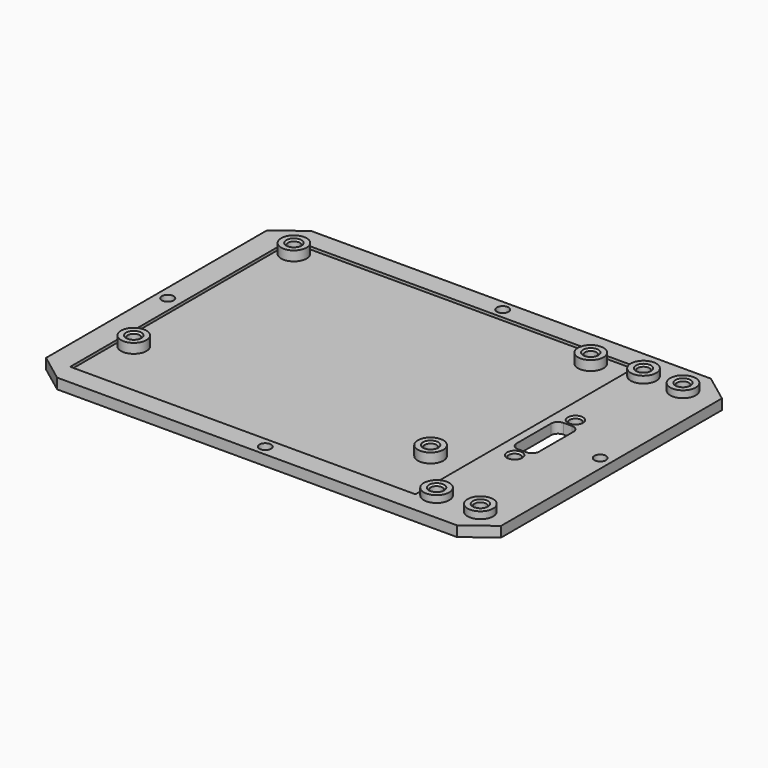
from build123d import *

# Parameters (mm, degrees)
PAD003_DEPTH    = 3
SKETCH020_W     = 100
SKETCH020_H     = 80
POCKET004_DEPTH = 0.8
SKETCH021_R     = 3.7
PAD004_DEPTH    = 2.8
SKETCH022_R     = 3.7
PAD005_DEPTH    = 2
SKETCH023_R     = 1.7
POCKET005_DEPTH = 4
SKETCH024_R     = 1.7
POCKET006_DEPTH = 3
SKETCH025_W     = 6.5
SKETCH025_H     = 16.5
POCKET007_DEPTH = 3
FILLET_R        = 2
SKETCH026_R     = 1.7
POCKET008_DEPTH = 3
CHAMFER_SIZE    = 0.5
SKETCH036_W     = 60
SKETCH036_H     = 40
PAD006_DEPTH    = 2
SKETCH034_W     = 40
SKETCH034_H     = 1
POCKET009_DEPTH = 10
SKETCH035_W     = 40
SKETCH035_H     = 1
POCKET011_DEPTH = 10
SKETCH037_W     = 40
SKETCH037_H     = 1
POCKET010_DEPTH = 5


with BuildPart() as part:
    # Sketch033 → Pad003 (new body)
    with BuildSketch(Plane.XY):
        Polygon((-65.9, 40), (-57.9, 46), (57.9, 46), (65.9, 40), (65.9, -40), (57.9, -46), (-57.9, -46), (-65.9, -40), align=None)
    extrude(amount=PAD003_DEPTH)

    # Sketch020 → Pocket004 (cut)
    with BuildSketch(Plane.XY.offset(3)):
        with Locations((-8.9, 0)):
            Rectangle(SKETCH020_W, SKETCH020_H)
    extrude(amount=-POCKET004_DEPTH, mode=Mode.SUBTRACT)

    # Sketch021 (on Face15 of Pocket004) → Pad004 (join)
    with BuildSketch(Plane.XY.offset(2.2)):
        with Locations((-54.9, 36)):
            Circle(SKETCH021_R)
        with Locations((31.1, 36)):
            Circle(SKETCH021_R)
        with Locations((31.1, -22)):
            Circle(SKETCH021_R)
        with Locations((-54.9, -22)):
            Circle(SKETCH021_R)
    extrude(amount=PAD004_DEPTH)

    # Sketch022 (on Face5 of Pad004) → Pad005 (join)
    with BuildSketch(Plane.XY.offset(3)):
        with Locations((45.22, 37.46)):
            Circle(SKETCH022_R)
        with Locations((56.65, 37.46)):
            Circle(SKETCH022_R)
        with Locations((45.2, -37.46)):
            Circle(SKETCH022_R)
        with Locations((57.9, -37.46)):
            Circle(SKETCH022_R)
    extrude(amount=PAD005_DEPTH)

    # Sketch023 (on Face29 of Pad005) → Pocket005 (cut)
    with BuildSketch(Plane.XY.offset(5)):
        with Locations((-54.9, 36)):
            Circle(SKETCH023_R)
        with Locations((-54.9, -22)):
            Circle(SKETCH023_R)
        with Locations((31.1, -22)):
            Circle(SKETCH023_R)
        with Locations((31.1, 36)):
            Circle(SKETCH023_R)
        with Locations((45.22, 37.46)):
            Circle(SKETCH023_R)
        with Locations((56.65, 37.46)):
            Circle(SKETCH023_R)
        with Locations((45.2, -37.46)):
            Circle(SKETCH023_R)
        with Locations((57.9, -37.46)):
            Circle(SKETCH023_R)
    extrude(amount=-POCKET005_DEPTH, mode=Mode.SUBTRACT)

    # Sketch024 (on Face4 of Pocket005) → Pocket006 (cut)
    with BuildSketch(Plane(origin=(0, 0, 0), x_dir=(1, 0, 0), z_dir=(0, 0, -1))):
        with Locations((0, 43)):
            Circle(SKETCH024_R)
        with Locations((-62.65, 0)):
            Circle(SKETCH024_R)
        with Locations((62.65, 0)):
            Circle(SKETCH024_R)
        with Locations((0, -43)):
            Circle(SKETCH024_R)
    extrude(amount=-POCKET006_DEPTH, mode=Mode.SUBTRACT)

    # Sketch025 (on Face5 of Pocket006) → Pocket007 (cut)
    with BuildSketch(Plane.XY.offset(3)):
        with Locations((46.65, 0)):
            Rectangle(SKETCH025_W, SKETCH025_H)
    extrude(amount=-POCKET007_DEPTH, mode=Mode.SUBTRACT)

    # Fillet
    fillet_edges = [part.edges().sort_by_distance(p)[0] for p in [
        (43.4, 8.25, 1.5),
        (49.9, 8.25, 1.5),
        (43.4, -8.25, 1.5),
        (49.9, -8.25, 1.5),
    ]]
    fillet(fillet_edges, radius=FILLET_R)

    # Sketch026 (on Face22 of Fillet) → Pocket008 (cut)
    with BuildSketch(Plane.XY.offset(3)):
        with Locations((46.65, 11)):
            Circle(SKETCH026_R)
        with Locations((46.65, -11)):
            Circle(SKETCH026_R)
    extrude(amount=-POCKET008_DEPTH, mode=Mode.SUBTRACT)

    # Chamfer
    chamfer_edges = [part.edges().sort_by_distance(p)[0] for p in [
        (44.95, 11, 3),
        (44.95, -11, 3),
        (43.52, 37.46, 5),
        (54.95, 37.46, 5),
        (29.4, 36, 5),
        (-56.6, 36, 5),
        (-56.6, -22, 5),
        (29.4, -22, 5),
        (43.5, -37.46, 5),
        (56.2, -37.46, 5),
        (60.95, 0, 0),
        (-1.7, 43, 0),
        (-64.35, 0, 0),
        (-1.7, -43, 0),
    ]]
    chamfer(chamfer_edges, length=CHAMFER_SIZE)

    # Sketch036 (on Face1 of Chamfer) → Pad006 (join)
    with BuildSketch(Plane(origin=(0, 0, 0), x_dir=(1, 0, 0), z_dir=(0, 0, -1))):
        Rectangle(SKETCH036_W, SKETCH036_H)
    extrude(amount=PAD006_DEPTH)

    # Sketch034 (on Face13 of Pad006) → Pocket009 (cut)
    with BuildSketch(Plane.YZ.offset(30)):
        with Locations((0, -0.5)):
            Rectangle(SKETCH034_W, SKETCH034_H)
    extrude(amount=-POCKET009_DEPTH, mode=Mode.SUBTRACT)

    # Sketch035 (on Face76 of Pocket009) → Pocket011 (cut)
    with BuildSketch(Plane(origin=(-30, 0, 0), x_dir=(0, -1, 0), z_dir=(-1, 0, 0))):
        with Locations((0, -0.5)):
            Rectangle(SKETCH035_W, SKETCH035_H)
    extrude(amount=-POCKET011_DEPTH, mode=Mode.SUBTRACT)

    # Sketch037 (on Face76 of Pocket011) → Pocket010 (cut)
    with BuildSketch(Plane.XZ.offset(20)):
        with Locations((0, -0.5)):
            Rectangle(SKETCH037_W, SKETCH037_H)
    extrude(amount=-POCKET010_DEPTH, mode=Mode.SUBTRACT)


with BuildPart() as part_1:
    # Body003 placement: moved
    add(part.part.moved(Location((0, 0, 5))))


solid = part_1.part
